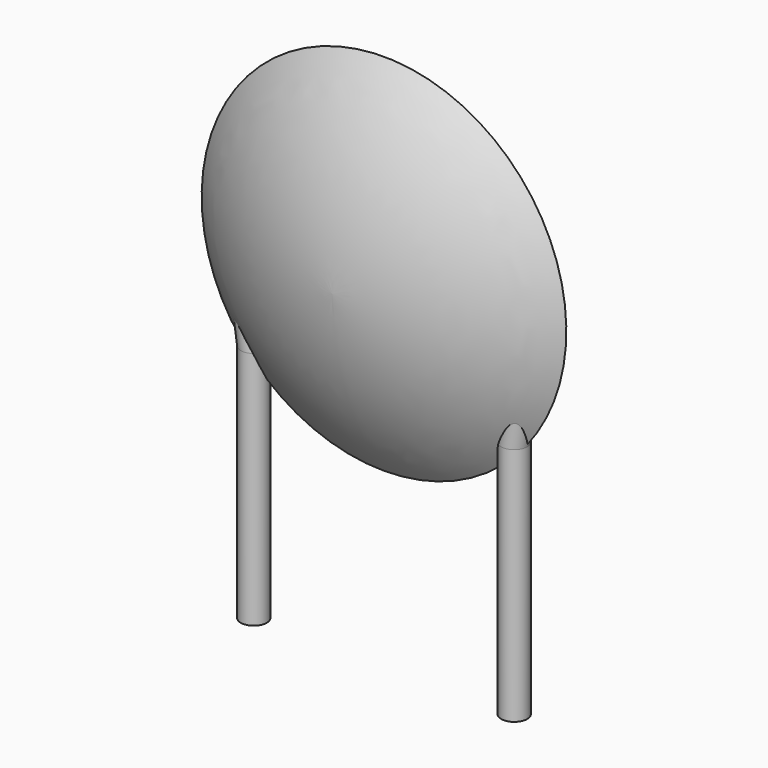
from build123d import *

# Parameters (mm, degrees)
SKETCH001_R       = 0.25
PAD001_DEPTH      = 1.4
PAD001_DEPTH_BACK = 3.2
SKETCH002_R       = 0.25
SKETCH003_R       = 0.25
SKETCH004_R       = 0.25
SKETCH005_R       = 0.25


with BuildPart() as pad001:
    # Sketch001 → Pad001 (new body, two sides)
    with BuildSketch(Plane.XY) as pad001_sk:
        Circle(SKETCH001_R)
        with Locations((5, 0)):
            Circle(SKETCH001_R)
    extrude(amount=PAD001_DEPTH)
    extrude(pad001_sk.sketch, amount=-PAD001_DEPTH_BACK)


with BuildPart() as revolution:
    # Sketch → Revolution (revolve)
    with BuildSketch(Plane.YZ.offset(2.5)):
        with BuildLine():
            Line((-1.25, 3.6), (1.25, 3.6))
            ThreePointArc((0, 0.1), (0.906846, 1.749341), (1.25, 3.6))
            ThreePointArc((-1.25, 3.6), (-0.906846, 1.749341), (0, 0.1))
        make_face()
    revolve(axis=Axis((2.5, -3.32079, 3.6), (0, 1, 0)))


with BuildPart() as loft_body:
    # Sketch002 → Loft section 0
    with BuildSketch(Plane.XY.offset(3.5)):
        with Locations((-0.3, 0)):
            Circle(SKETCH002_R)
    # Sketch003 → Loft section 1
    with BuildSketch(Plane.XY.offset(1.4)):
        Circle(SKETCH003_R)
    loft()


with BuildPart() as loft001:
    # Sketch004 → Loft001 section 0
    with BuildSketch(Plane.XY.offset(1.4)):
        with Locations((5, 0)):
            Circle(SKETCH004_R)
    # Sketch005 → Loft001 section 1
    with BuildSketch(Plane.XY.offset(3.5)):
        with Locations((5.3, 0)):
            Circle(SKETCH005_R)
    loft()


solid = Compound([pad001.part, revolution.part, loft_body.part, loft001.part])
